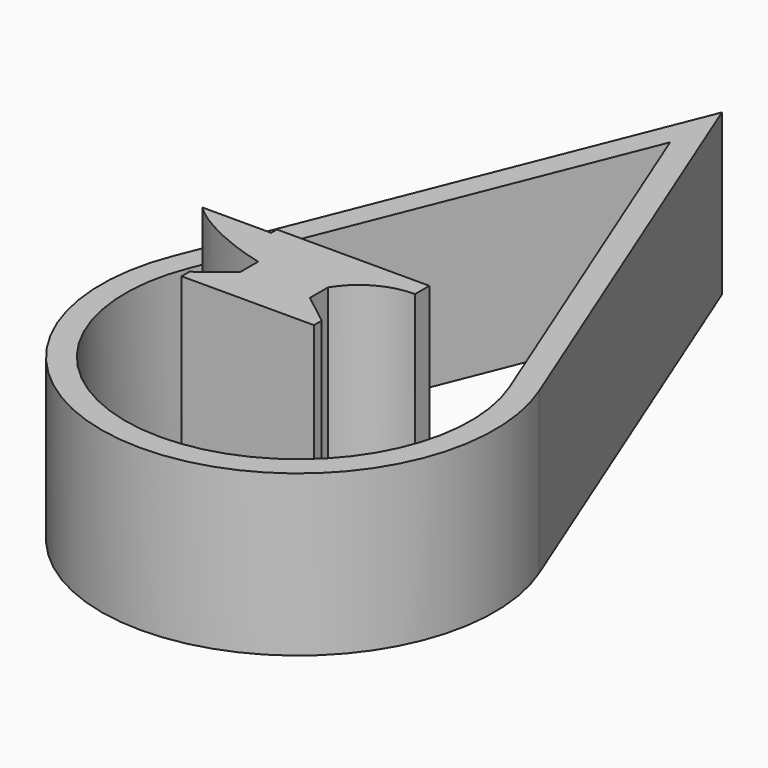
from build123d import *

# Parameters (mm, degrees)
F2_DEPTH = 25.4
F1_W     = 13.97
F1_H     = 1.0356558798
F3_SCALE = 1.5


with BuildPart() as f2:
    # F0 (on Top) → F2 (new body)
    with BuildSketch(Plane.XY):
        with BuildLine():
            Line((28.9374961923, -62.0850015231), (0, 10.2587389576))
            Line((0, 10.2587389576), (-28.9374961923, -62.0850015231))
            ThreePointArc((-28.9374961923, -62.0850015231), (-25.808070966, -91.1329147148), (0, -104.8266372202))
            ThreePointArc((0, -104.8266372202), (25.808070966, -91.1329147148), (28.9374961923, -62.0850015231))
        make_face()
        with BuildLine():
            Line((-25.4, -63.5), (0, 0))
            Line((0, 0), (25.4, -63.5))
            ThreePointArc((25.4, -63.5), (22.6531348179, -88.9969189514), (0, -101.0166372202))
            ThreePointArc((0, -101.0166372202), (-22.6531348179, -88.9969189514), (-25.4, -63.5))
        make_face(mode=Mode.SUBTRACT)
    extrude(amount=F2_DEPTH)


with BuildPart() as f2b:
    # F1 (on Top) → F2, piece 2 (new body)
    with BuildSketch(Plane.XY):
        with BuildLine():
            Line((10.668, -73.8916642258), (-5.4233825181, -73.8916642258))
            Line((-5.4233825181, -73.8916642258), (-5.4233825181, -74.6536642258))
            Line((-5.4233825181, -74.6536642258), (-12.7, -74.6536642258))
            add(Edge.make_bspline(
                [(-12.7, -74.6536642258), (-10.8760064468, -76.4802768826), (-6.8749203347, -78.405559063), (-3.048, -79.3367698789)],
                knots=[0, 0, 0, 0, 10.7281211103, 10.7281211103, 10.7281211103, 10.7281211103], degree=3))
            Line((-3.048, -79.3367698789), (-3.048, -81.7244201899))
            Line((-3.048, -81.7244201899), (-6.35, -84.286008346))
            Line((-6.35, -84.286008346), (7.62, -84.286008346))
            Line((7.62, -84.286008346), (4.318, -81.7244201899))
            Line((4.318, -81.7244201899), (4.318, -79.3367698789))
            ThreePointArc((4.318, -79.3367698789), (7.0274127125, -76.7255711038), (10.668, -75.7740457537))
            Line((10.668, -75.7740457537), (10.668, -73.8916642258))
        make_face()
        with Locations((0.635, -84.8038362859)):
            Rectangle(F1_W, F1_H)
    extrude(amount=F2_DEPTH)


with BuildPart() as f2b_1:
    # F3: moved
    add(f2b.part.scale(F3_SCALE))


with BuildPart() as f2b_2:
    # F4: moved
    add(f2b_1.part.moved(Location((0, 43.18, 0))))


solid = Compound([f2.part, f2b_2.part])
